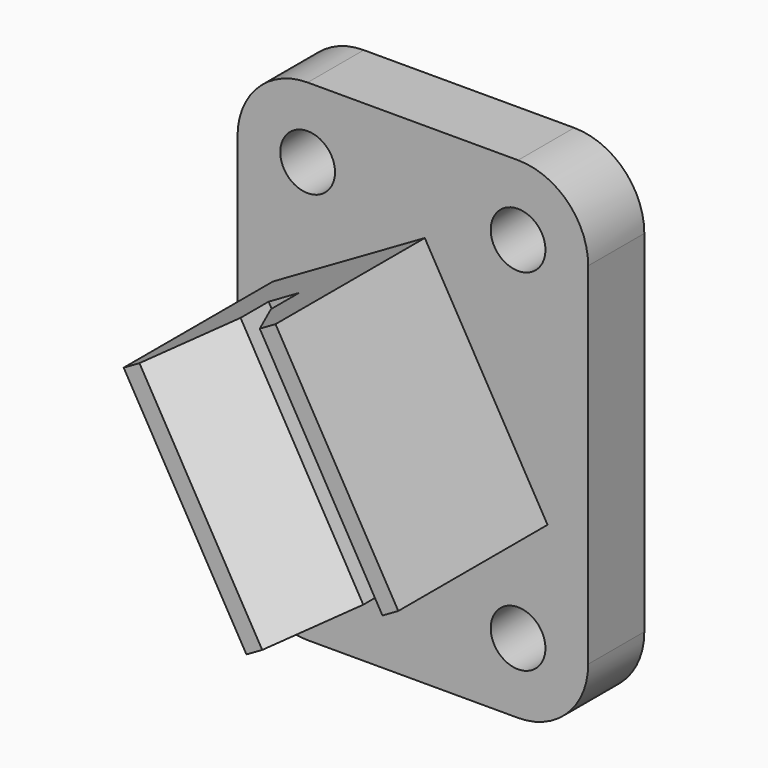
from build123d import *

# Parameters (mm, degrees)
F0_R     = 4.953
F1_DEPTH = 12.7
F4_DEPTH = 44.45


with BuildPart() as f1:
    # F0 (on Front) → F1 (new body)
    with BuildSketch(Plane.XZ):
        with BuildLine():
            ThreePointArc((0, 12.7), (3.719744, 3.719744), (12.7, 0))
            Line((12.7, 0), (50.8, 0))
            ThreePointArc((50.8, 0), (59.780256, 3.719744), (63.5, 12.7))
            Line((63.5, 12.7), (63.5, 32.512))
            Line((63.5, 32.512), (63.5, 45.212))
            Line((63.5, 45.212), (63.5, 76.2))
            ThreePointArc((63.5, 76.2), (59.780256, 85.180256), (50.8, 88.9))
            Line((50.8, 88.9), (12.7, 88.9))
            ThreePointArc((12.7, 88.9), (3.719744, 85.180256), (0, 76.2))
            Line((0, 76.2), (0, 12.7))
        make_face()
        with Locations((12.7, 12.7)):
            Circle(F0_R, mode=Mode.SUBTRACT)
        Polygon((33.909, 71.006829), (56.134, 32.512), (28.637693, 16.637), (6.412693, 55.131829), align=None, mode=Mode.SUBTRACT)
        with Locations((50.8, 12.7)):
            Circle(F0_R, mode=Mode.SUBTRACT)
        with Locations((12.7, 76.2)):
            Circle(F0_R, mode=Mode.SUBTRACT)
        with Locations((50.8, 76.2)):
            Circle(F0_R, mode=Mode.SUBTRACT)
        Polygon((28.637693, 16.637), (56.134, 32.512), (33.909, 71.006829), (6.412693, 55.131829), align=None)
    extrude(amount=-F1_DEPTH)

    # F3 (on face) → F4 (join, through all)
    with BuildSketch(Plane(origin=(-0.044609, 0, 0.077265), x_dir=(0.866025, 0, 0.5), z_dir=(-0.5, 0, 0.866025))):
        Polygon((64.86947, 0), (33.11947, 0), (33.11947, -14.732), (33.11947, -33.782), (36.42147, -33.782), (45.81947, -21.082), (45.81947, -14.732), (48.99447, -14.732), (52.16947, -14.732), (52.16947, -21.082), (61.56747, -33.782), (64.86947, -33.782), align=None)
    extrude(amount=F4_DEPTH)


solid = f1.part
